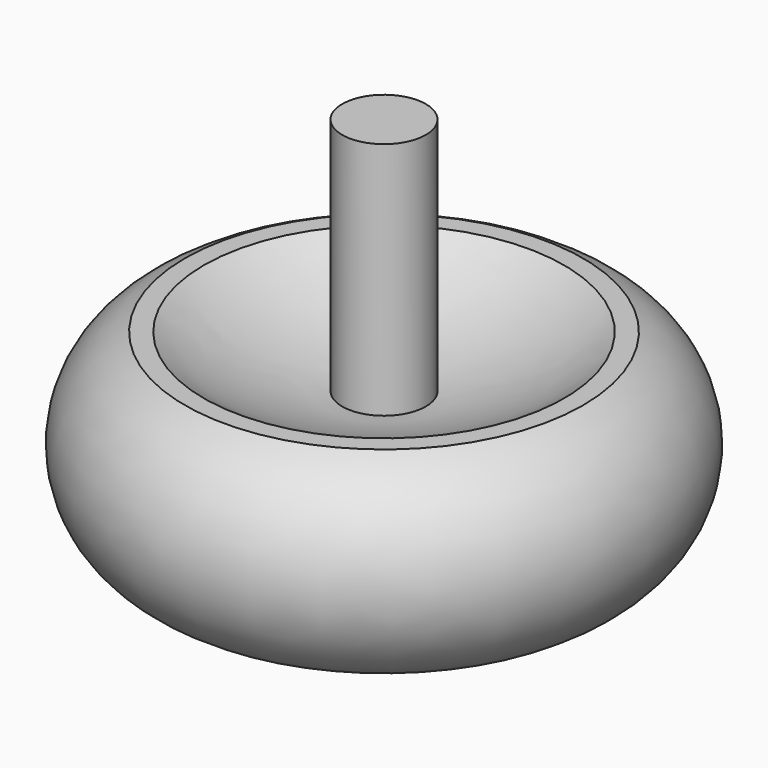
from build123d import *

# Parameters (mm, degrees)
F4_W = 5.334224
F4_H = 38.883694


with BuildPart() as f1:
    # F0 (on Front) → F1 (revolve)
    with BuildSketch(Plane.XZ):
        with BuildLine():
            Line((0, -10.072414), (0, 15.035632))
            Line((0, 15.035632), (-25.4, 15.035632))
            ThreePointArc((-25.4, 15.035632), (-33.70152, 2.481609), (-25.4, -10.072414))
            Line((-25.4, -10.072414), (0, -10.072414))
        make_face()
    revolve(axis=Axis((0, 0, 2.481609), (0, 0, -1)))

    # F2 (on Front) → F3 (revolve, cut)
    with BuildSketch(Plane.XZ):
        with BuildLine():
            Line((0, 15.035632), (-22.992752, 15.035632))
            ThreePointArc((-22.992752, 15.035632), (-12.018117, 9.820534), (0, 8.030357))
            Line((0, 8.030357), (0, 15.035632))
        make_face()
    revolve(axis=Axis((0, 0, 11.532994), (0, 0, -1)), mode=Mode.SUBTRACT)

    # F4 (on Front) → F5 (revolve)
    with BuildSketch(Plane.XZ):
        with Locations((2.667112, 19.441847)):
            Rectangle(F4_W, F4_H)
    revolve(axis=Axis((0, 0, 19.441847), (0, 0, 1)))


solid = f1.part
